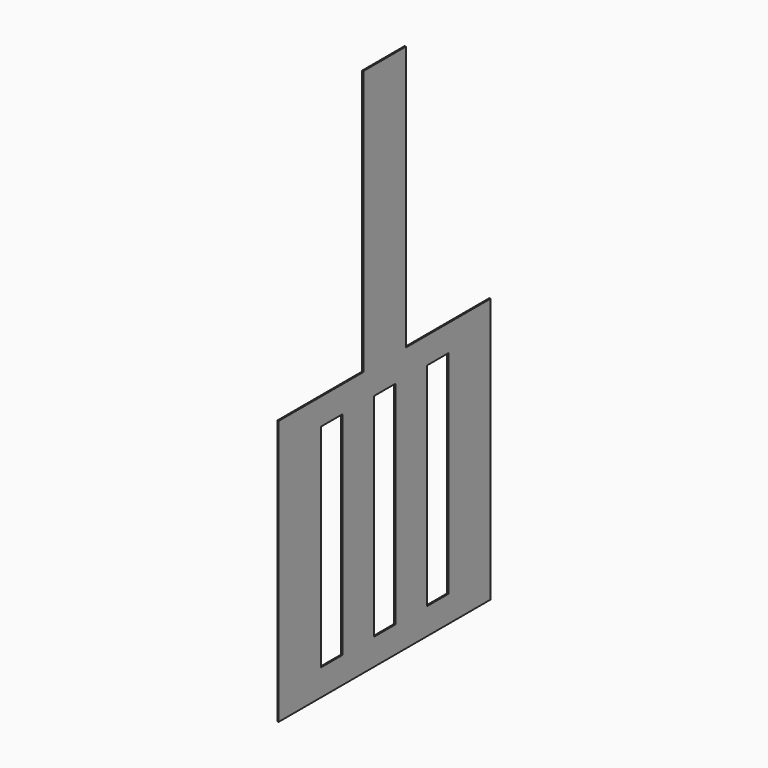
from build123d import *

# Parameters (mm, degrees)
F0_W     = 1
F0_H     = 8
F1_DEPTH = 0.05


with BuildPart() as f1:
    # F0 (on Right) → F1 (new body)
    with BuildSketch(Plane.YZ):
        Polygon((0, 1), (0, 0), (10, 0), (10, 10), (6, 10), (6, 20), (4, 20), (4, 10), (0, 10), (0, 9), align=None)
        with Locations((2.5, 5)):
            Rectangle(F0_W, F0_H, mode=Mode.SUBTRACT)
        with Locations((5, 5)):
            Rectangle(F0_W, F0_H, mode=Mode.SUBTRACT)
        with Locations((7.5, 5)):
            Rectangle(F0_W, F0_H, mode=Mode.SUBTRACT)
    extrude(amount=F1_DEPTH)


solid = f1.part
